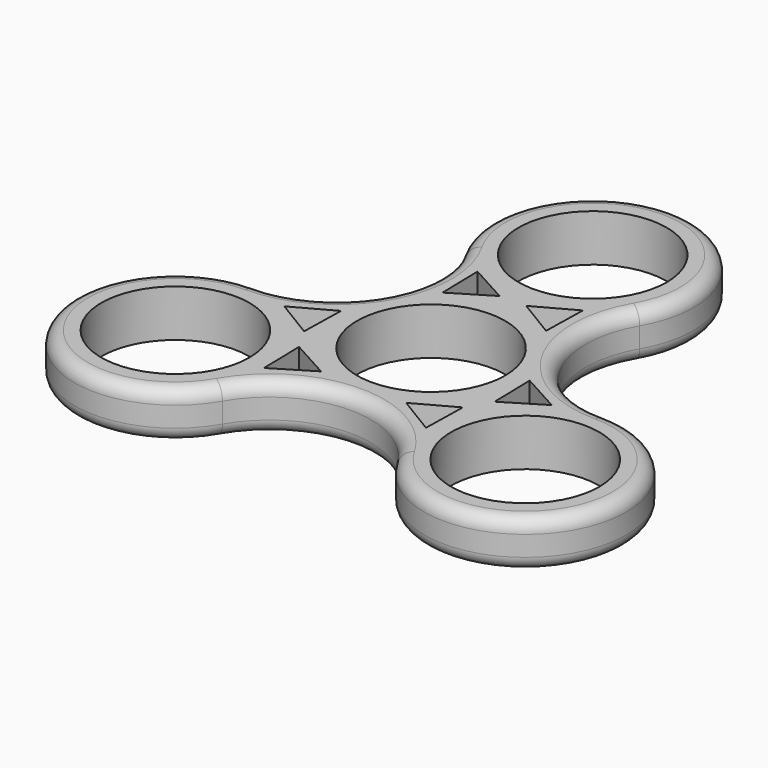
from build123d import *

# Parameters (mm, degrees)
F0_R     = 11
F1_DEPTH = 7
F2_R     = 2


with BuildPart() as f1:
    # F0 (on Top) → F1 (new body)
    with BuildSketch(Plane.XY):
        with BuildLine():
            ThreePointArc((25.980762, 0), (12.990381, 7.5), (12.990381, 22.5))
            ThreePointArc((12.990381, 22.5), (0, 45), (-12.990381, 22.5))
            ThreePointArc((-12.990381, 22.5), (-12.990381, 7.5), (-25.980762, 0))
            ThreePointArc((-25.980762, 0), (-38.971143, -22.5), (-12.990381, -22.5))
            ThreePointArc((-12.990381, -22.5), (0, -15), (12.990381, -22.5))
            ThreePointArc((12.990381, -22.5), (38.971143, -22.5), (25.980762, 0))
        make_face()
        with Locations((-25.980762, -15)):
            Circle(F0_R, mode=Mode.SUBTRACT)
        Polygon((-12.026, -15.982735), (-12.170219, -9.31274), (-6.321724, -12.52284), align=None, mode=Mode.SUBTRACT)
        Polygon((-14.005959, 0.786647), (-14.150179, -5.883349), (-19.854455, -2.423454), align=None, mode=Mode.SUBTRACT)
        Polygon((6.321724, -12.52284), (12.170219, -9.31274), (12.026, -15.982735), align=None, mode=Mode.SUBTRACT)
        with Locations((25.980762, -15)):
            Circle(F0_R, mode=Mode.SUBTRACT)
        Polygon((14.150179, -5.883349), (14.005959, 0.786647), (19.854455, -2.423454), align=None, mode=Mode.SUBTRACT)
        Circle(F0_R, mode=Mode.SUBTRACT)
        Polygon((-7.684236, 11.736193), (-7.828455, 18.406189), (-1.97996, 15.196089), align=None, mode=Mode.SUBTRACT)
        Polygon((1.97996, 15.196089), (7.828455, 18.406189), (7.684236, 11.736193), align=None, mode=Mode.SUBTRACT)
        with Locations((0, 30)):
            Circle(F0_R, mode=Mode.SUBTRACT)
    extrude(amount=F1_DEPTH)

    # F2
    f2_edges = [f1.edges().sort_by_distance(p)[0] for p in [
        (-12.990381, 7.5, 7),
        (0, 45, 7),
        (12.990381, 7.5, 0),
        (12.990381, 7.5, 7),
        (38.971143, -22.5, 7),
        (0, -15, 7),
        (-38.971143, -22.5, 7),
        (0, 45, 0),
        (-12.990381, 7.5, 0),
        (-38.971143, -22.5, 0),
        (0, -15, 0),
        (38.971143, -22.5, 0),
    ]]
    fillet(f2_edges, radius=F2_R)


solid = f1.part
